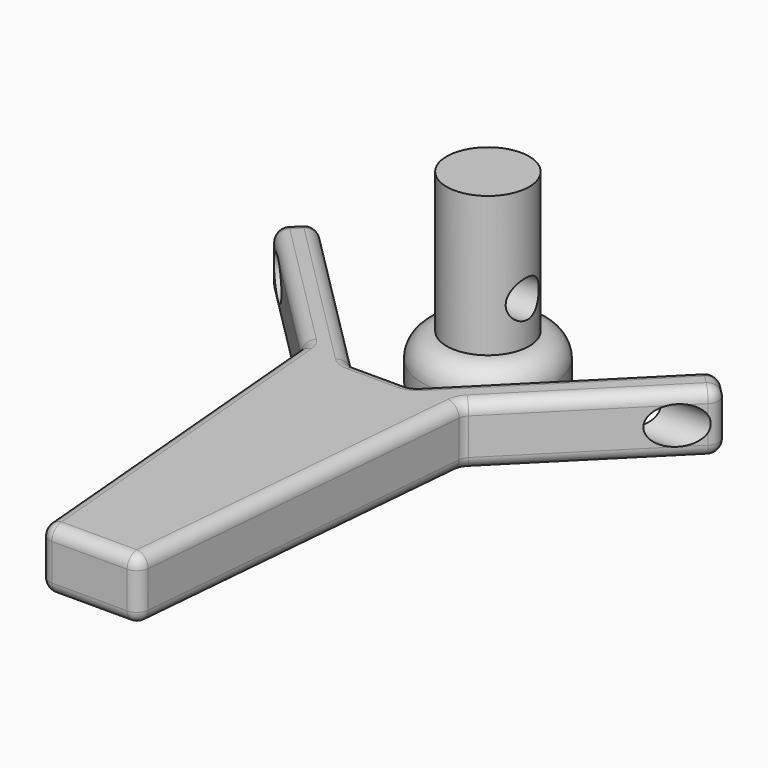
from build123d import *

# Parameters (mm, degrees)
F1_DEPTH       = 50
F2_R           = 10
F3_R           = 15.3995531455
F4_DEPTH       = 242.7
F4_DEPTH_BACK  = 187
F5_R           = 53.8009172273
F6_DEPTH       = 36
F7_R           = 20
F8_DEPTH       = 115
F9_R           = 15.399555
F10_DEPTH      = 82
F10_DEPTH_BACK = 108
F11_R          = 37.8401838669
F12_DEPTH      = 23
F12_TAPER      = 20


with BuildPart() as f1:
    # F0 (on Top) → F1 (new body)
    with BuildSketch(Plane.XY):
        Polygon((-40, -300), (0, -300), (40, -300), (66.2465990578, 0), (184.8894452647, 118.642846207), (164.2661457358, 139.2661457358), (25, 0), (0, 0), (-25, 0), (-164.2661457358, 139.2661457358), (-184.8894452647, 118.642846207), (-66.2465990578, 0), align=None)
    extrude(amount=F1_DEPTH)

    # F2
    f2_edges = [f1.edges().sort_by_distance(p)[0] for p in [
        (-184.889445, 118.642846, 25),
        (-66.246599, 0, 25),
        (-125.568022, 59.321423, 0),
        (-125.568022, 59.321423, 50),
        (-40, -300, 25),
        (-53.1233, -150, 0),
        (-53.1233, -150, 50),
        (0, -300, 50),
        (40, -300, 25),
        (0, -300, 0),
        (66.246599, 0, 25),
        (53.1233, -150, 0),
        (53.1233, -150, 50),
        (184.889445, 118.642846, 25),
        (125.568022, 59.321423, 0),
        (125.568022, 59.321423, 50),
        (94.633073, 69.633073, 0),
        (164.266146, 139.266146, 25),
        (174.577796, 128.954496, 0),
        (174.577796, 128.954496, 50),
        (25, 0, 25),
        (94.633073, 69.633073, 50),
        (0, 0, 50),
        (-25, 0, 25),
        (0, 0, 0),
        (-164.266146, 139.266146, 25),
        (-94.633073, 69.633073, 0),
        (-94.633073, 69.633073, 50),
        (-174.577796, 128.954496, 0),
        (-174.577796, 128.954496, 50),
    ]]
    fillet(f2_edges, radius=F2_R)

    # F3 (on Right) → F4 (cut, two sides)
    with BuildSketch(Plane.YZ) as f4_sk:
        with Locations((97.5249931216, 25.3674779087)):
            Circle(F3_R)
    extrude(amount=-F4_DEPTH, mode=Mode.SUBTRACT)
    extrude(f4_sk.sketch, amount=F4_DEPTH_BACK, mode=Mode.SUBTRACT)


with BuildPart() as f6:
    # F5 (on Top) → F6 (new body)
    with BuildSketch(Plane.XY):
        with Locations((0, 108.2598343492)):
            Circle(F5_R)
    extrude(amount=F6_DEPTH)

    # F7
    f7_edges = [f6.edges().sort_by_distance(p)[0] for p in [
        (-53.800917, 108.259834, 36),
    ]]
    fillet(f7_edges, radius=F7_R)

    # F8 (add): a face of the model
    f8_faces = [f6.faces().sort_by_distance(p)[0] for p in [
        (0, 108.2598343492, 36),
    ]]
    extrude(f8_faces, amount=F8_DEPTH)

    # F9 (on Right) → F10 (cut, two sides)
    with BuildSketch(Plane.YZ) as f10_sk:
        with Locations((105.9147268534, 71.1878240108)):
            Circle(F9_R)
    extrude(amount=-F10_DEPTH, mode=Mode.SUBTRACT)
    extrude(f10_sk.sketch, amount=F10_DEPTH_BACK, mode=Mode.SUBTRACT)

    # F11 (on face) → F12 (cut)
    with BuildSketch(Plane(origin=(0, 0, 0), x_dir=(1, 0, 0), z_dir=(0, 0, -1))):
        with Locations((0, -108.2598343492)):
            Circle(F11_R)
    extrude(amount=-F12_DEPTH, taper=F12_TAPER, mode=Mode.SUBTRACT)


solid = Compound([f1.part, f6.part])
